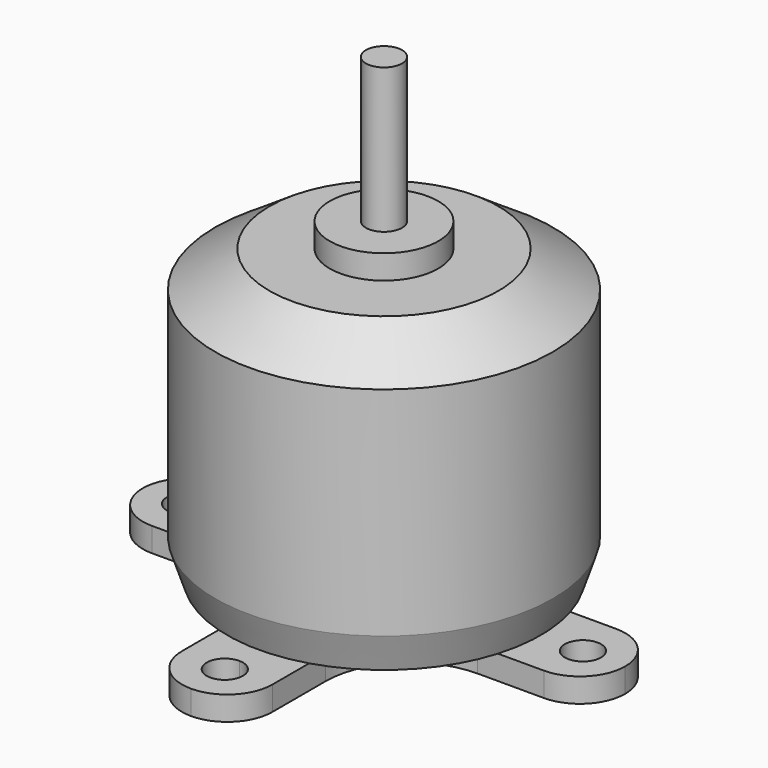
from build123d import *

# Parameters (mm, degrees)
F3_DEPTH = 2
F4_R     = 7
F2_R     = 1.1604986379
F5_DEPTH = 2
F6_R     = 1.5
F7_DEPTH = 2


with BuildPart() as f1:
    # F0 (on Front) → F1 (revolve)
    with BuildSketch(Plane.XZ):
        Polygon((-20, 0), (0, 0), (0, 40), (-1.5, 40), (-1.5, 28), (-4.5, 28), (-4.5, 26), (-9.5, 26), (-14, 23), (-14, 5), (-13, 2), (-20, 2), align=None)
    revolve(axis=Axis((0, 0, 20), (0, 0, 1)))

    # F2 (on face) → F3 (cut)
    with BuildSketch(Plane(origin=(0, 0, 0), x_dir=(1, 0, 0), z_dir=(0, 0, -1))):
        with BuildLine():
            Line((-3.75, 3.75), (-3.75, 16.25))
            ThreePointArc((-3.75, 16.25), (-2.6516504294, 18.9016504294), (0, 20))
            ThreePointArc((0, 20), (-14.1421355915, 14.1421356559), (-20, 9.1e-08))
            ThreePointArc((-20, 9.1e-08), (-18.9016503973, 2.6516504616), (-16.25, 3.75))
            Line((-16.25, 3.75), (-3.75, 3.75))
        make_face()
        with BuildLine():
            ThreePointArc((0, 20), (2.6516504294, 18.9016504294), (3.75, 16.25))
            Line((3.75, 16.25), (3.75, 3.75))
            Line((3.75, 3.75), (16.25, 3.75))
            ThreePointArc((16.25, 3.75), (18.9016504294, 2.6516504294), (20, 0))
            ThreePointArc((20, 0), (14.1421356237, 14.1421356237), (0, 20))
        make_face()
        with BuildLine():
            ThreePointArc((-2.95e-08, -20), (14.1421356133, -14.1421356341), (20, 0))
            ThreePointArc((20, 0), (18.9016504294, -2.6516504294), (16.25, -3.75))
            Line((16.25, -3.75), (3.75, -3.75))
            Line((3.75, -3.75), (3.75, -16.25))
            ThreePointArc((3.75, -16.25), (2.651650419, -18.9016504399), (-2.95e-08, -20))
        make_face()
        with BuildLine():
            ThreePointArc((-16.25, -3.75), (-18.9016504616, -2.6516503973), (-20, 9.1e-08))
            ThreePointArc((-20, 9.1e-08), (-14.1421356663, -14.1421355811), (-2.95e-08, -20))
            ThreePointArc((-2.95e-08, -20), (-2.6516504399, -18.901650419), (-3.75, -16.25))
            Line((-3.75, -16.25), (-3.75, -3.75))
            Line((-3.75, -3.75), (-16.25, -3.75))
        make_face()
    extrude(amount=-F3_DEPTH, mode=Mode.SUBTRACT)

    # F4
    f4_edges = [f1.edges().sort_by_distance(p)[0] for p in [
        (3.75, 3.75, 1),
        (-3.75, 3.75, 1),
        (-3.75, -3.75, 1),
        (3.75, -3.75, 1),
    ]]
    fillet(f4_edges, radius=F4_R)

    # F2 (on face) → F5 (cut)
    with BuildSketch(Plane(origin=(0, 0, 0), x_dir=(1, 0, 0), z_dir=(0, 0, -1))):
        Circle(F2_R)
    extrude(amount=-F5_DEPTH, mode=Mode.SUBTRACT)

    # F6 (on face) → F7 (cut)
    with BuildSketch(Plane(origin=(0, 0, 0), x_dir=(1, 0, 0), z_dir=(0, 0, -1))):
        with BuildLine():
            ThreePointArc((1.5, 16.5), (-1.0606601718, 17.5606601718), (0, 15))
            ThreePointArc((0, 15), (1.0606601718, 15.4393398282), (1.5, 16.5))
        make_face()
        with Locations((-16.5, 0)):
            Circle(F6_R)
        with BuildLine():
            ThreePointArc((1.5, -16.5), (1.0606601718, -15.4393398282), (0, -15))
            ThreePointArc((0, -15), (-1.0606601718, -17.5606601718), (1.5, -16.5))
        make_face()
        with BuildLine():
            ThreePointArc((18, 0), (16.5, 1.5), (15, 0))
            ThreePointArc((15, 0), (16.5, -1.5), (18, 0))
        make_face()
    extrude(amount=-F7_DEPTH, mode=Mode.SUBTRACT)


solid = f1.part
